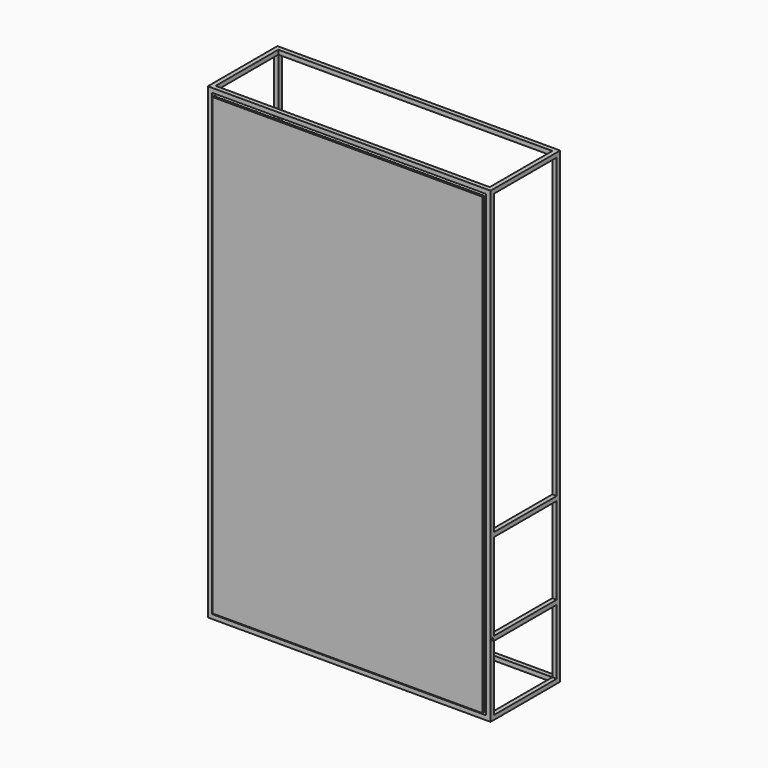
from build123d import *

# Parameters (mm, degrees)
F0_W      = 1260
F0_H      = 20
F0_W_2    = 20
F0_H_2    = 2110
F1_DEPTH  = 20
F2_DEPTH  = 400
F3_W      = 20
F3_H      = 2110
F3_W_2    = 1260
F3_H_2    = 20
F4_DEPTH  = 20
F5_W      = 400
F5_H      = 20
F6_DEPTH  = 20
F7_DEPTH  = 20
F8_W      = 360
F8_H      = 20
F9_DEPTH  = 20
F10_R     = 5
F11_DEPTH = 1300.001
F12_W     = 20
F12_H     = 20
F12_W_2   = 1200
F12_H_2   = 2050
F13_DEPTH = 10


with BuildPart() as f1:
    # F0 (on Front) → F1 (new body)
    with BuildSketch(Plane.XZ):
        with Locations((595.0776390731, 2140)):
            Rectangle(F0_W, F0_H)
        with Locations((-44.9223609269, 2140)):
            Rectangle(F0_W_2, F0_H)
        with Locations((-44.9223609269, 1075)):
            Rectangle(F0_W_2, F0_H_2)
        with Locations((1235.0776390731, 2140)):
            Rectangle(F0_W_2, F0_H)
        with Locations((1235.0776390731, 1075)):
            Rectangle(F0_W_2, F0_H_2)
        with Locations((1235.0776390731, 10)):
            Rectangle(F0_W_2, F0_H)
        with Locations((595.0776390731, 10)):
            Rectangle(F0_W, F0_H)
        with Locations((-44.9223609269, 10)):
            Rectangle(F0_W_2, F0_H)
    extrude(amount=F1_DEPTH)

    # F0 (on Front) → F2 (join)
    with BuildSketch(Plane.XZ):
        with Locations((-44.9223609269, 10)):
            Rectangle(F0_W_2, F0_H)
        with Locations((1235.0776390731, 10)):
            Rectangle(F0_W_2, F0_H)
        with Locations((-44.9223609269, 2140)):
            Rectangle(F0_W_2, F0_H)
        with Locations((1235.0776390731, 2140)):
            Rectangle(F0_W_2, F0_H)
    extrude(amount=F2_DEPTH)

    # F3 (on face) → F4 (join)
    with BuildSketch(Plane.XZ.offset(400)):
        with Locations((-44.9223609269, 1075)):
            Rectangle(F3_W, F3_H)
        with Locations((595.0776390731, 10)):
            Rectangle(F3_W_2, F3_H_2)
        with Locations((1235.0776390731, 1075)):
            Rectangle(F3_W, F3_H)
        with Locations((595.0776390731, 2140)):
            Rectangle(F3_W_2, F3_H_2)
    extrude(amount=-F4_DEPTH)

    # F5 (on face) → F6 (join)
    with BuildSketch(Plane.YZ.offset(1245.0776390731)):
        with Locations((-200, 330)):
            Rectangle(F5_W, F5_H)
        with Locations((-200, 750)):
            Rectangle(F5_W, F5_H)
    extrude(amount=-F6_DEPTH)

    # F5 (on face) → F7 (join)
    with BuildSketch(Plane.YZ.offset(1245.0776390731)):
        with Locations((-200, 330)):
            Rectangle(F5_W, F5_H)
        with Locations((-200, 750)):
            Rectangle(F5_W, F5_H)
    extrude(amount=-F7_DEPTH)

    # F8 (on face) → F9 (join)
    with BuildSketch(Plane(origin=(-54.9223609269, 0, 0), x_dir=(0, -1, 0), z_dir=(-1, 0, 0))):
        with Locations((200, 750)):
            Rectangle(F8_W, F8_H)
        with Locations((200, 330)):
            Rectangle(F8_W, F8_H)
    extrude(amount=-F9_DEPTH)

    # F10 (on face) → F11 (cut, through all)
    with BuildSketch(Plane.YZ.offset(1245.0776390731)):
        with Locations((-390, 330)):
            Circle(F10_R)
    extrude(amount=-F11_DEPTH, mode=Mode.SUBTRACT)


with BuildPart() as f13:
    # F12 (on face) → F13 (new body)
    with BuildSketch(Plane.XZ.offset(400)):
        with Locations((1205.0776390731, 2110)):
            Rectangle(F12_W, F12_H)
        with Locations((595.0776390731, 2110)):
            Rectangle(F12_W_2, F12_H)
        with Locations((1205.0776390731, 1075)):
            Rectangle(F12_W, F12_H_2)
        with Locations((-14.9223609269, 2110)):
            Rectangle(F12_W, F12_H)
        with Locations((1205.0776390731, 40)):
            Rectangle(F12_W, F12_H)
        with Locations((-14.9223609269, 1075)):
            Rectangle(F12_W, F12_H_2)
        with Locations((595.0776390731, 40)):
            Rectangle(F12_W_2, F12_H)
        with Locations((-14.9223609269, 40)):
            Rectangle(F12_W, F12_H)
        with Locations((595.0776390731, 1075)):
            Rectangle(F12_W_2, F12_H_2)
    extrude(amount=F13_DEPTH)


solid = Compound([f1.part, f13.part])
